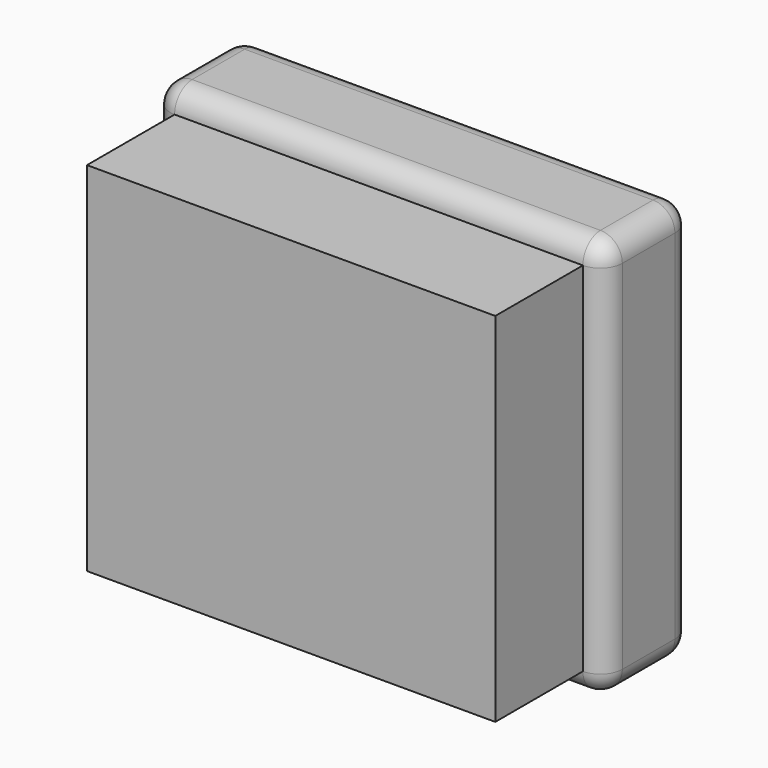
from build123d import *

# Parameters (mm, degrees)
F0_W      = 103.20944
F0_H      = 91.590699
F1_DEPTH  = 25
F2_R      = 5
F1_FACE_W = 93.20944
F1_FACE_H = 81.590698
F3_DEPTH  = 25


with BuildPart() as f1:
    # F0 (on Front) → F1 (new body)
    with BuildSketch(Plane.XZ):
        with Locations((-14.929665, 0.558546)):
            Rectangle(F0_W, F0_H)
    extrude(amount=F1_DEPTH)

    # F2
    f2_edges = [f1.edges().sort_by_distance(p)[0] for p in [
        (-14.929665, -25, 46.353895),
        (-66.534385, -25, 0.558546),
        (-14.929665, -25, -45.236804),
        (36.675055, -25, 0.558546),
        (36.675055, -12.5, 46.353895),
        (-66.534385, -12.5, 46.353895),
        (-14.929665, 0, 46.353895),
        (36.675055, -12.5, -45.236804),
        (36.675055, 0, 0.558546),
        (-66.534385, -12.5, -45.236804),
        (-14.929665, 0, -45.236804),
        (-66.534385, 0, 0.558546),
    ]]
    fillet(f2_edges, radius=F2_R)

    # F1_face (on face) → F3 (join)
    with BuildSketch(Plane(origin=(-14.929665, -25, 0.558546), x_dir=(1, 0, 0), z_dir=(0, -1, 0))):
        Rectangle(F1_FACE_W, F1_FACE_H)
    extrude(amount=F3_DEPTH)


solid = f1.part
